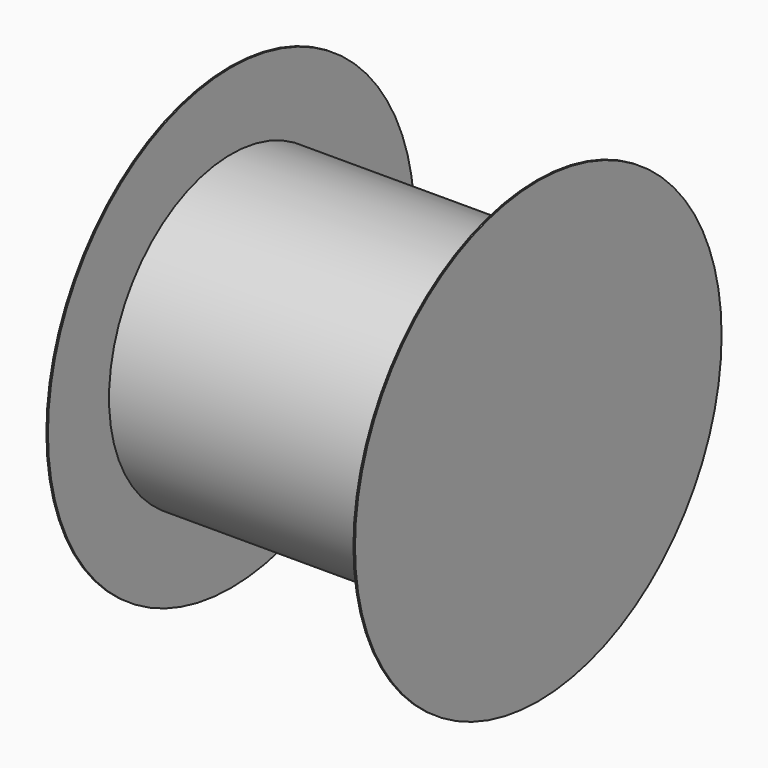
from build123d import *

# Parameters (mm, degrees)
SKETCH012_R   = 100
SKETCH012_R_2 = 10
PAD009_DEPTH  = 200
SKETCH013_R   = 150
SKETCH013_R_2 = 10
PAD011_DEPTH  = 1
SKETCH014_R   = 150
PAD010_DEPTH  = 1


with BuildPart() as part:
    # Sketch012 → Pad009 (new body)
    with BuildSketch(Plane.YZ):
        Circle(SKETCH012_R)
        Circle(SKETCH012_R_2, mode=Mode.SUBTRACT)
    extrude(amount=PAD009_DEPTH)

    # Sketch013 (on Face3 of Pad009) → Pad011 (join)
    with BuildSketch(Plane(origin=(0, 0, 0), x_dir=(0, 1, 0), z_dir=(-1, 0, 0))):
        Circle(SKETCH013_R)
        Circle(SKETCH013_R_2, mode=Mode.SUBTRACT)
    extrude(amount=PAD011_DEPTH)

    # Sketch014 (on Face3 of Pad011) → Pad010 (join)
    with BuildSketch(Plane.YZ.offset(200)):
        Circle(SKETCH014_R)
    extrude(amount=PAD010_DEPTH)


with BuildPart() as part_1:
    # Body004 placement: moved
    add(part.part.moved(Location((219, -225, 160))))


solid = part_1.part
